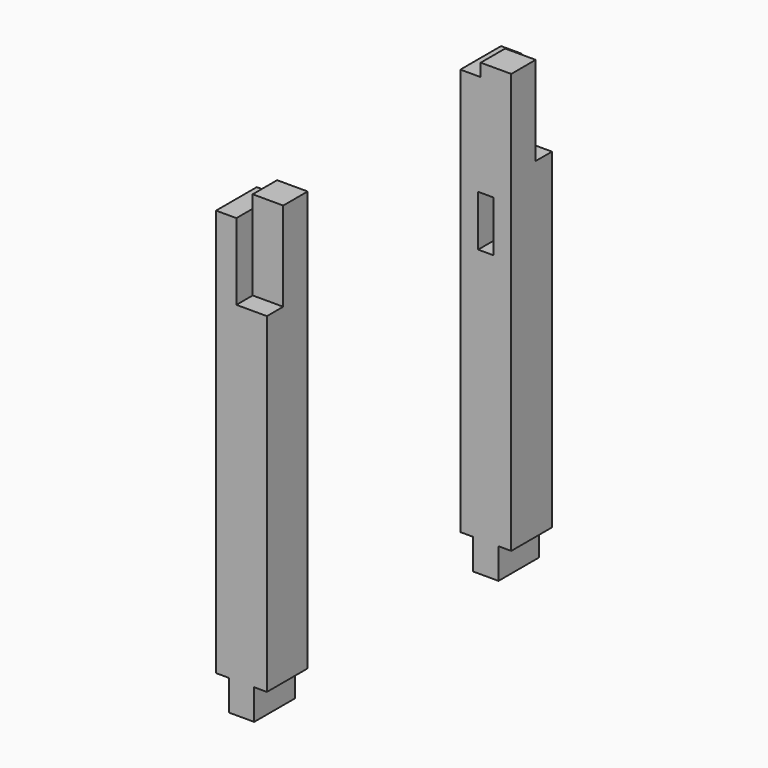
from build123d import *

# Parameters (mm, degrees)
F3_W      = 100
F3_H      = 100
F4_DEPTH  = 800
F5_W      = 50
F5_H      = 100
F6_DEPTH  = 60
F7_W      = 30
F7_H      = 100
F8_DEPTH  = 40
F9_W      = 60
F9_H      = 150
F10_DEPTH = 40
F11_W     = 60
F11_H     = 60
F12_DEPTH = 25


with BuildPart() as f4:
    # F3 (on Top) → F4 (new body)
    with BuildSketch(Plane.XY):
        Rectangle(F3_W, F3_H)
    extrude(amount=F4_DEPTH)

    # F5 (on face) → F6 (join)
    with BuildSketch(Plane(origin=(0, 0, 0), x_dir=(1, 0, 0), z_dir=(0, 0, -1))):
        Rectangle(F5_W, F5_H)
    extrude(amount=F6_DEPTH)

    # F7 (on face) → F8 (cut)
    with BuildSketch(Plane.XZ.offset(50)):
        with Locations((0, 550)):
            Rectangle(F7_W, F7_H)
    extrude(amount=-F8_DEPTH, mode=Mode.SUBTRACT)

    # F9 (on face) → F10 (cut)
    with BuildSketch(Plane(origin=(0, 50, 0), x_dir=(-1, 0, 0), z_dir=(0, 1, 0))):
        with Locations((-20, 725)):
            Rectangle(F9_W, F9_H)
    extrude(amount=-F10_DEPTH, mode=Mode.SUBTRACT)

    # F11 (on face) → F12 (join)
    with BuildSketch(Plane.XY.offset(800)):
        with Locations((20, -20)):
            Rectangle(F11_W, F11_H)
    extrude(amount=F12_DEPTH)


with BuildPart() as f14_1:
    # F14: instance of F4
    add(f4.part.mirror(Plane.XZ.offset(300)))


solid = Compound([f4.part, f14_1.part])
